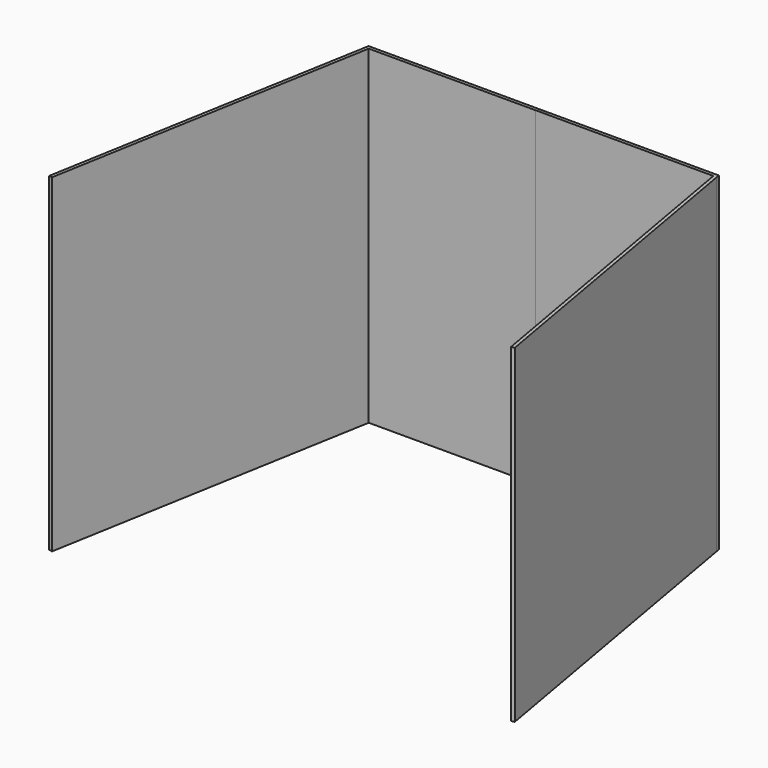
from build123d import *

# Parameters (mm, degrees)
F0_W     = 5
F0_H     = 1.5
F1_DEPTH = 300
F2_DEPTH = 300


with BuildPart() as f1:
    # F0 (on Top) → F1 (new body)
    with BuildSketch(Plane.XY):
        Polygon((-156.95372, -1.5), (-160, -1.5), (-212.002597, -296.421381), (-209.048173, -296.942326), align=None)
        Polygon((0, 1.5), (-159.471019, 1.5), (-160, -1.5), (-156.95372, -1.5), (-5, -1.5), (-5, 0), (0, 0), align=None)
        with Locations((2.5, 0.75)):
            Rectangle(F0_W, F0_H)
    extrude(amount=F1_DEPTH)


with BuildPart() as f2:
    # F0 (on Top) → F2 (new body)
    with BuildSketch(Plane.XY):
        Polygon((159.471019, 1.5), (5, 1.5), (5, 0), (0, 0), (0, -1.5), (156.95372, -1.5), (160, -1.5), align=None)
        with Locations((-2.5, -0.75)):
            Rectangle(F0_W, F0_H)
        Polygon((212.002597, -296.421381), (160, -1.5), (156.95372, -1.5), (209.048173, -296.942326), align=None)
    extrude(amount=F2_DEPTH)


solid = Compound([f1.part, f2.part])
